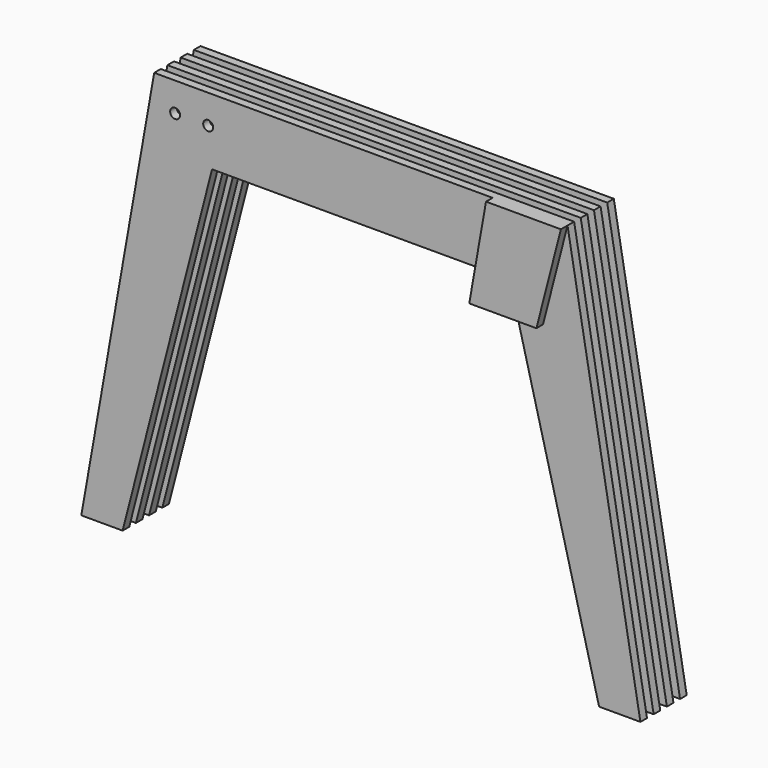
from build123d import *

# Parameters (mm, degrees)
F1_R     = 0.6
F2_DEPTH = 1
F6_DEPTH = 2


with BuildPart() as f2:
    # F1 (on Front) → F2 (new body)
    with BuildSketch(Plane.XZ):
        Polygon((33.8163490354, -50), (25, 0), (15.9397430409, 0), (0, 0), (-25, 0), (-33.8163490354, -50), (-28.8163490354, -50), (-18, -8), (0, -8), (18, -8), (28.8163490354, -50), align=None)
        with Locations((-22.4698715204, -3.5)):
            Circle(F1_R, mode=Mode.SUBTRACT)
        with Locations((-18.4698715204, -3.5)):
            Circle(F1_R, mode=Mode.SUBTRACT)
        with Locations((18.4698715204, -3.5)):
            Circle(F1_R, mode=Mode.SUBTRACT)
        with Locations((22.4698715204, -3.5)):
            Circle(F1_R, mode=Mode.SUBTRACT)
    extrude(amount=F2_DEPTH)


with BuildPart() as f3_1:
    # F3: copy of F2
    add(f2.part.moved(Location((0, 2, 0))))


with BuildPart() as f4_1:
    # F4: copy of F3_1
    add(f3_1.part.moved(Location((0, 2, 0))))


with BuildPart() as f2_1:
    add(f2.part)

    # F5 (on Front) → F6 (join)
    with BuildSketch(Plane.XZ):
        Polygon((25, 0), (15.9397430409, 0), (13.9119827627, -11.5), (22.0383806213, -11.5), align=None)
    extrude(amount=F6_DEPTH)


with BuildPart() as f7_1:
    # F7: copy of F4_1
    add(f4_1.part.moved(Location((0, 2, 0))))


solid = Compound([f3_1.part, f4_1.part, f2_1.part, f7_1.part])
